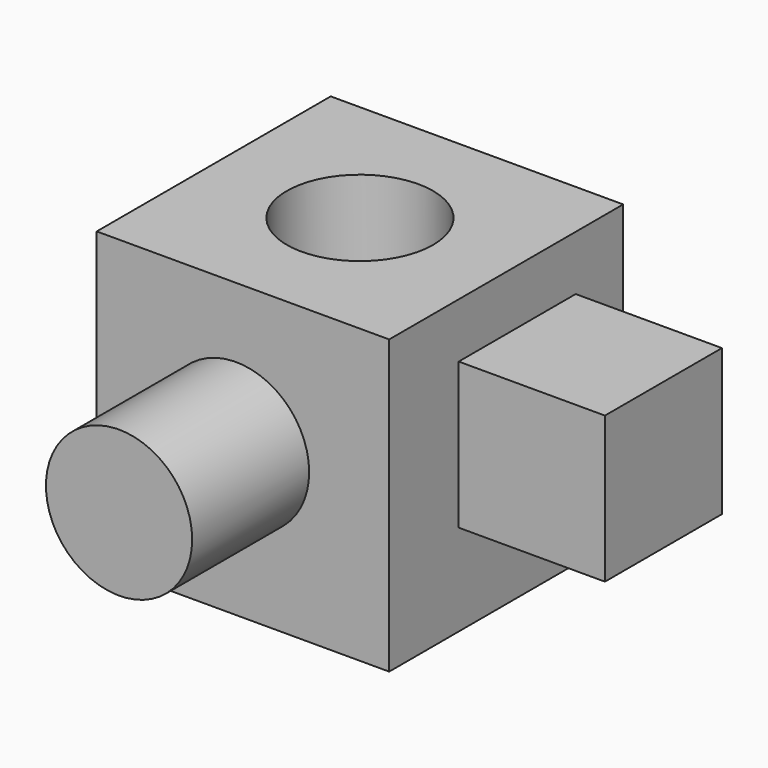
from build123d import *

# Parameters (mm, degrees)
F0_W     = 50.8
F0_H     = 50.8
F1_DEPTH = 50.8
F2_R     = 12.7
F3_DEPTH = 76.2
F4_W     = 25.4
F4_H     = 25.4
F5_DEPTH = 25.4
F6_R     = 12.7
F7_DEPTH = 50.8


with BuildPart() as f1:
    # F0 (on Front) → F1 (new body)
    with BuildSketch(Plane.XZ):
        with Locations((-25.4, 25.4)):
            Rectangle(F0_W, F0_H)
    extrude(amount=F1_DEPTH)

    # F2 (on Front) → F3 (join)
    with BuildSketch(Plane.XZ):
        with Locations((-26.602566, 25.995664)):
            Circle(F2_R)
    extrude(amount=F3_DEPTH)

    # F4 (on face) → F5 (join)
    with BuildSketch(Plane.YZ):
        with Locations((-23.006107, 28.58062)):
            Rectangle(F4_W, F4_H)
    extrude(amount=F5_DEPTH)

    # F6 (on face) → F7 (cut)
    with BuildSketch(Plane(origin=(0, 0, 0), x_dir=(1, 0, 0), z_dir=(0, 0, -1))):
        with Locations((-25.4, 25.4)):
            Circle(F6_R)
    extrude(amount=-F7_DEPTH, mode=Mode.SUBTRACT)


solid = f1.part
